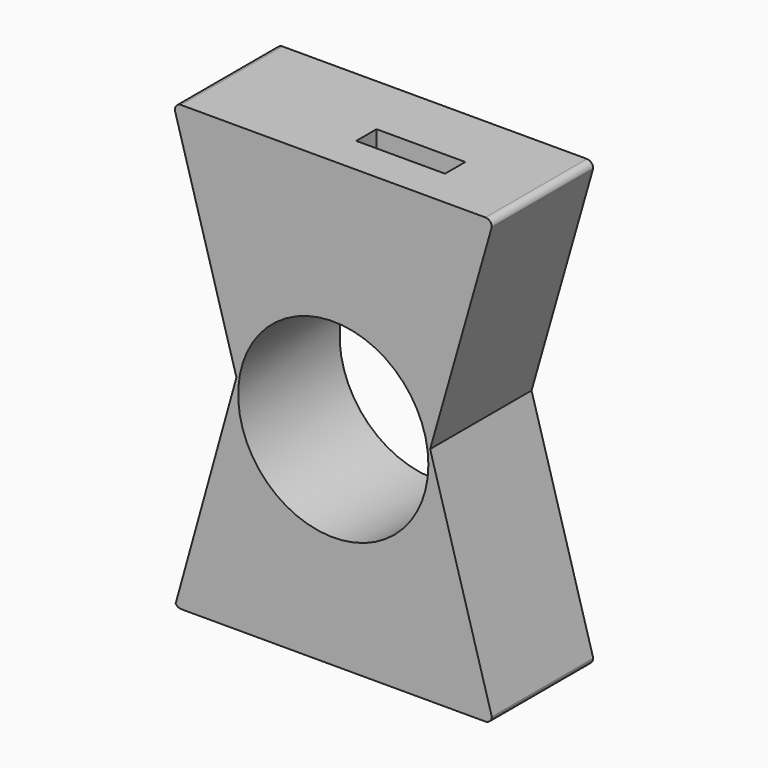
from build123d import *

# Parameters (mm, degrees)
F1_DEPTH = 100
F2_R     = 75
F3_DEPTH = 267
F4_W     = 70
F4_H     = 20
F5_DEPTH = 231


with BuildPart() as f1:
    # F0 (on Front) → F1 (new body)
    with BuildSketch(Plane.XZ):
        with BuildLine():
            Line((120, 175), (-120, 175))
            ThreePointArc((-120, 175), (-123.535534, 173.535534), (-125, 170))
            Line((-125, 170), (-76.379128, 0))
            Line((-76.379128, 0), (-124.313403, -172.528746))
            ThreePointArc((-124.313403, -172.528746), (-122.485585, -174.338417), (-120, -175))
            Line((-120, -175), (120, -175))
            ThreePointArc((120, -175), (123.535534, -173.535534), (125, -170))
            Line((125, -170), (76.379128, 0))
            Line((76.379128, 0), (125, 170))
            ThreePointArc((125, 170), (123.535534, 173.535534), (120, 175))
        make_face()
    extrude(amount=F1_DEPTH)

    # F2 (on face) → F3 (cut)
    with BuildSketch(Plane.XZ.offset(100)):
        with Locations((0, -11.24055)):
            Circle(F2_R)
    extrude(amount=-F3_DEPTH, mode=Mode.SUBTRACT)

    # F4 (on face) → F5 (cut)
    with BuildSketch(Plane.XY.offset(175)):
        with Locations((29.123203, -60)):
            Rectangle(F4_W, F4_H)
    extrude(amount=-F5_DEPTH, mode=Mode.SUBTRACT)


solid = f1.part
